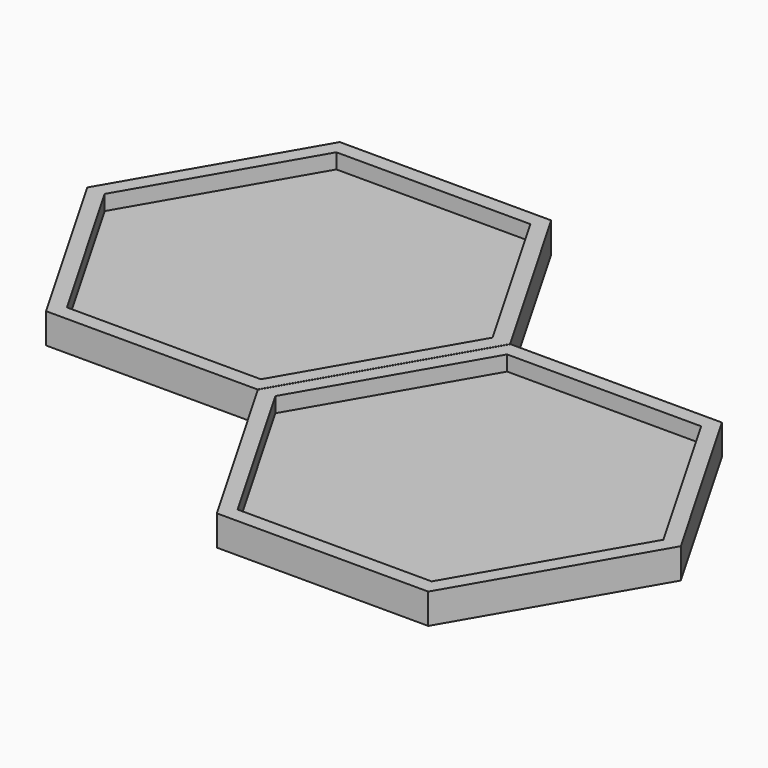
from build123d import *

# Parameters (mm, degrees)
F1_DEPTH = 3.175
F2_T     = -1.5875


with BuildPart() as f1:
    # F0 (on Top) → F1 (new body)
    with BuildSketch(Plane.XY):
        Polygon((22.225, -0.026565), (11.135506, 19.234132), (-11.089494, 19.260697), (-22.225, 0.026565), (-11.135506, -19.234132), (11.089494, -19.260697), align=None)
    extrude(amount=F1_DEPTH)

    # F2
    f2_openings = [f1.faces().sort_by_distance(p)[0] for p in [
        (0, 0, 3.175),
    ]]
    offset(amount=F2_T, openings=f2_openings)


with BuildPart() as f3_1:
    # F3: copy of F1
    add(f1.part.moved(Location((33.35891, -19.28628, 0))))


solid = Compound([f1.part, f3_1.part])
